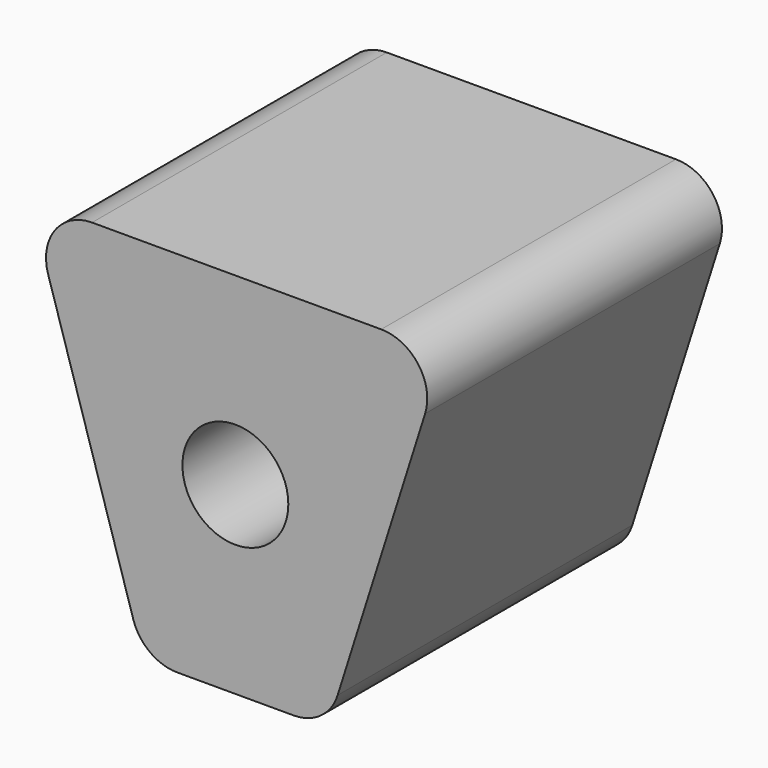
from build123d import *

# Parameters (mm, degrees)
F0_R     = 1.15
F1_DEPTH = 8


with BuildPart() as f1:
    # F0 (on Front) → F1 (new body)
    with BuildSketch(Plane.XZ):
        with BuildLine():
            Line((3.167478, 0), (-3.112125, 0))
            ThreePointArc((-3.112125, 0), (-3.916699, -0.406147), (-4.067722, -1.294678))
            Line((-4.067722, -1.294678), (-2.2175, -7.294678))
            ThreePointArc((-2.2175, -7.294678), (-1.855757, -7.804574), (-1.261904, -8))
            Line((-1.261904, -8), (1.2677, -8))
            ThreePointArc((1.2677, -8), (1.858521, -7.806802), (2.221052, -7.30186))
            Line((2.221052, -7.30186), (4.120831, -1.30186))
            ThreePointArc((4.120831, -1.30186), (3.974281, -0.409178), (3.167478, 0))
        make_face()
        with Locations((0, -4)):
            Circle(F0_R, mode=Mode.SUBTRACT)
    extrude(amount=F1_DEPTH)


solid = f1.part
